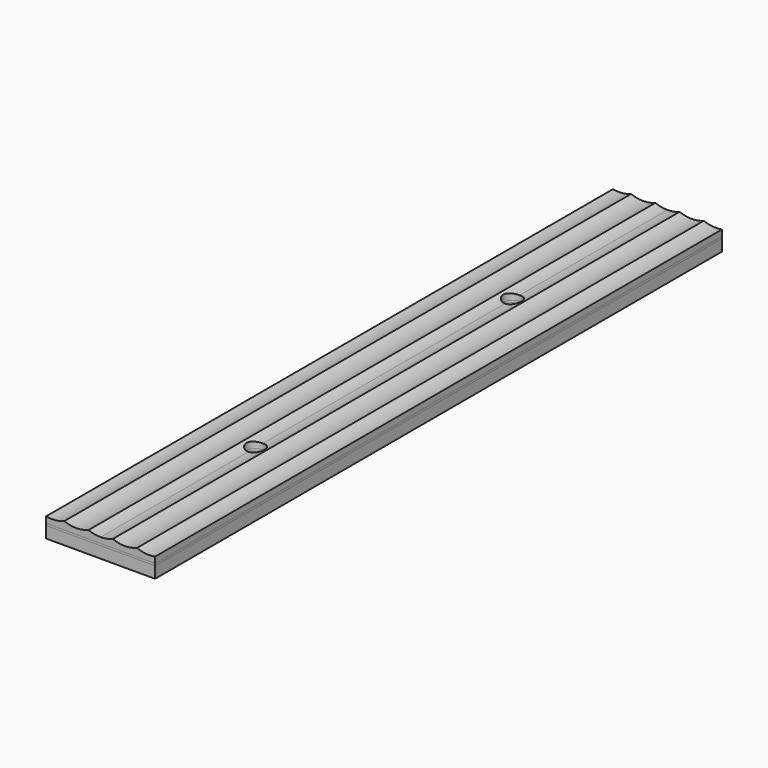
from build123d import *

# Parameters (mm, degrees)
F1_DEPTH = 185.7375
F2_DEPTH = 185.7375
F3_DEPTH = 185.7375
F4_R     = 4.7625
F5_DEPTH = 25.4


with BuildPart() as f1:
    # F0 (on Front) → F1 (new body, symmetric)
    with BuildSketch(Plane.XZ):
        Polygon((0, 0), (28.575, 0), (28.575, 5.9944), (0, 5.9944), (-28.575, 5.9944), (-28.575, 0), align=None)
    extrude(amount=F1_DEPTH, both=True)


with BuildPart() as f2:
    # F0 (on Front) → F2 (new body, symmetric)
    with BuildSketch(Plane.XZ):
        Polygon((0, 5.9944), (28.575, 5.9944), (28.575, 7.081965), (0, 7.081965), (-28.575, 7.081965), (-28.575, 5.9944), align=None)
    extrude(amount=F2_DEPTH, both=True)


with BuildPart() as f3:
    # F0 (on Front) → F3 (new body, symmetric)
    with BuildSketch(Plane.XZ):
        with BuildLine():
            Line((0, 7.081965), (28.575, 7.081965))
            Line((28.575, 7.081965), (28.575, 10.251668))
            ThreePointArc((28.575, 10.251668), (23.750728, 10.040894), (19.05, 11.145965))
            ThreePointArc((19.05, 11.145965), (12.7, 9.963639), (6.35, 11.145965))
            ThreePointArc((6.35, 11.145965), (3.229566, 10.261739), (0, 9.963639))
            ThreePointArc((0, 9.963639), (-3.229566, 10.261739), (-6.35, 11.145965))
            ThreePointArc((-6.35, 11.145965), (-12.7, 9.963639), (-19.05, 11.145965))
            ThreePointArc((-19.05, 11.145965), (-23.750728, 10.040894), (-28.575, 10.251668))
            Line((-28.575, 10.251668), (-28.575, 7.081965))
            Line((-28.575, 7.081965), (0, 7.081965))
        make_face()
    extrude(amount=F3_DEPTH, both=True)


with BuildPart() as f5_tool:
    # F4 (on Top) → F5 (new body)
    with BuildSketch(Plane.XY):
        with Locations((0, 84.1375)):
            Circle(F4_R)
        with Locations((0, -84.1375)):
            Circle(F4_R)
    extrude(amount=F5_DEPTH)


with BuildPart() as f1_1:
    add(f1.part)

    # F5: cut by f5_tool
    add(f5_tool.part, mode=Mode.SUBTRACT)


with BuildPart() as f2_1:
    add(f2.part)

    # F5: cut by f5_tool
    add(f5_tool.part, mode=Mode.SUBTRACT)


with BuildPart() as f3_1:
    add(f3.part)

    # F5: cut by f5_tool
    add(f5_tool.part, mode=Mode.SUBTRACT)


solid = Compound([f1_1.part, f2_1.part, f3_1.part])
